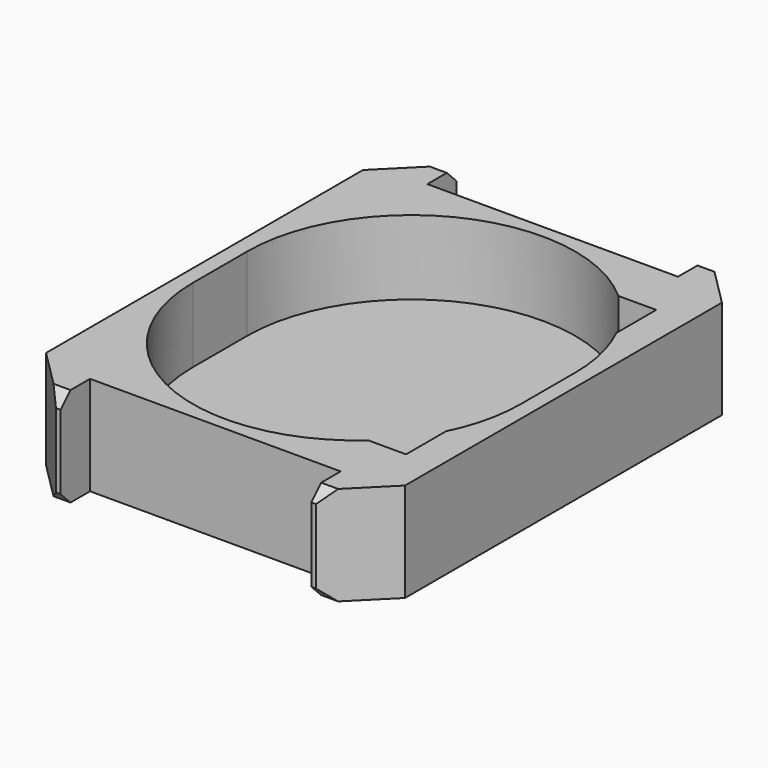
from build123d import *

# Parameters (mm, degrees)
SKETCH_W        = 29
SKETCH_H        = 40
PAD_DEPTH       = 8
CHAMFER_SIZE    = 4
CHAMFER001_SIZE = 1
SKETCH001_W     = 20.25
SKETCH001_H     = 20
POCKET_DEPTH    = 15
POCKET001_DEPTH = 6
SKETCH003_W     = 17.593698
SKETCH003_H     = 25.266384
POCKET002_DEPTH = 5
SKETCH004_W     = 4.2
SKETCH004_H     = 5.2
POCKET003_DEPTH = 1.2


with BuildPart() as part:
    # Sketch (on XY_Plane of Origin) → Pad (new body)
    with BuildSketch(Plane.XY):
        Rectangle(SKETCH_W, SKETCH_H)
    extrude(amount=PAD_DEPTH)

    # Chamfer
    chamfer_edges = [part.edges().sort_by_distance(p)[0] for p in [
        (14.5, 20, 4),
        (14.5, -20, 4),
        (-14.5, 20, 4),
        (-14.5, -20, 4),
    ]]
    chamfer(chamfer_edges, length=CHAMFER_SIZE)

    # Chamfer001
    chamfer001_edges = [part.edges().sort_by_distance(p)[0] for p in [
        (0, -20, 0),
        (0, -20, 8),
        (0, 20, 0),
        (0, 20, 8),
    ]]
    chamfer(chamfer001_edges, length=CHAMFER001_SIZE)

    # Sketch001 (on Face8 of Chamfer001) → Pocket (cut)
    with BuildSketch(Plane.XY.offset(8)):
        with Locations((0, -27.031727)):
            Rectangle(SKETCH001_W, SKETCH001_H)
        with Locations((0, 27.031727)):
            Rectangle(SKETCH001_W, SKETCH001_H)
    extrude(amount=-POCKET_DEPTH, mode=Mode.SUBTRACT)

    # Sketch002 (on Face7 of Pocket) → Pocket001 (cut)
    with BuildSketch(Plane.XY.offset(8)):
        with BuildLine():
            ThreePointArc((13.25, 2.75), (0, 16), (-13.25, 2.75))
            Line((-13.25, 2.75), (-13.25, -2.75))
            ThreePointArc((-13.25, -2.75), (0, -16), (13.25, -2.75))
            Line((13.25, 2.75), (13.25, -2.75))
        make_face()
    extrude(amount=-POCKET001_DEPTH, mode=Mode.SUBTRACT)

    # Sketch003 (on Face7 of Pocket001) → Pocket002 (cut)
    with BuildSketch(Plane.XY.offset(8)):
        with Locations((3.091955, 0)):
            Rectangle(SKETCH003_W, SKETCH003_H)
    extrude(amount=-POCKET002_DEPTH, mode=Mode.SUBTRACT)

    # Sketch004 (on Face36 of Pocket002) → Pocket003 (cut)
    with BuildSketch(Plane.XY.offset(2)):
        with Locations((10, -6)):
            Rectangle(SKETCH004_W, SKETCH004_H)
        with Locations((10, 6)):
            Rectangle(SKETCH004_W, SKETCH004_H)
    extrude(amount=-POCKET003_DEPTH, mode=Mode.SUBTRACT)


solid = part.part
